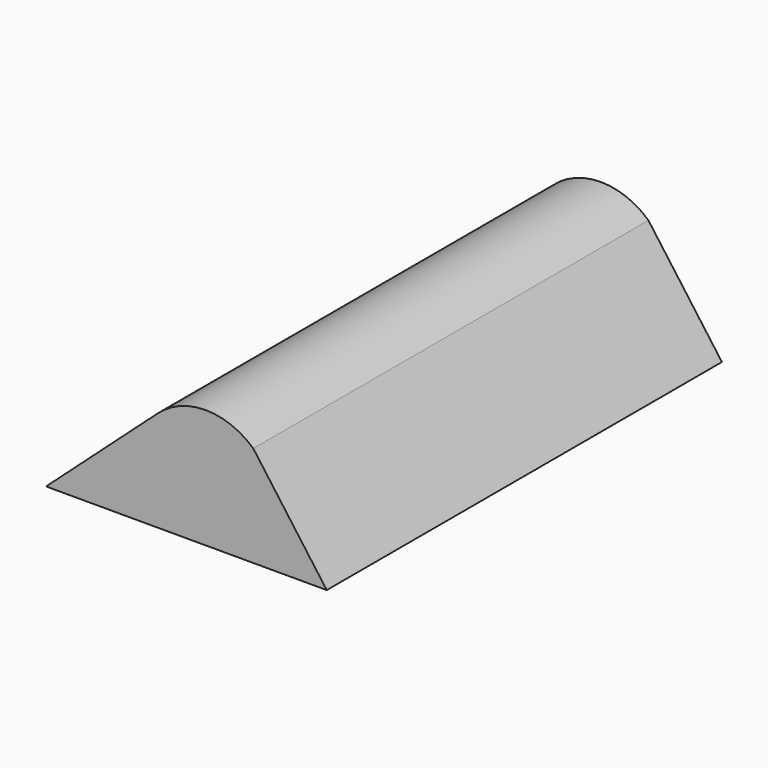
from build123d import *

# Parameters (mm, degrees)
F1_DEPTH = 1100


with BuildPart() as f1:
    # F0 (on Front) → F1 (new body, symmetric)
    with BuildSketch(Plane.XZ):
        with BuildLine():
            ThreePointArc((212.30522, 449.091214), (0, 530.657733), (-212.30522, 449.091214))
            Line((-212.30522, 449.091214), (-710.494002, 0))
            Line((-710.494002, 0), (539.505998, 0))
            Line((539.505998, 0), (212.30522, 449.091214))
        make_face()
    extrude(amount=F1_DEPTH, both=True)


solid = f1.part
